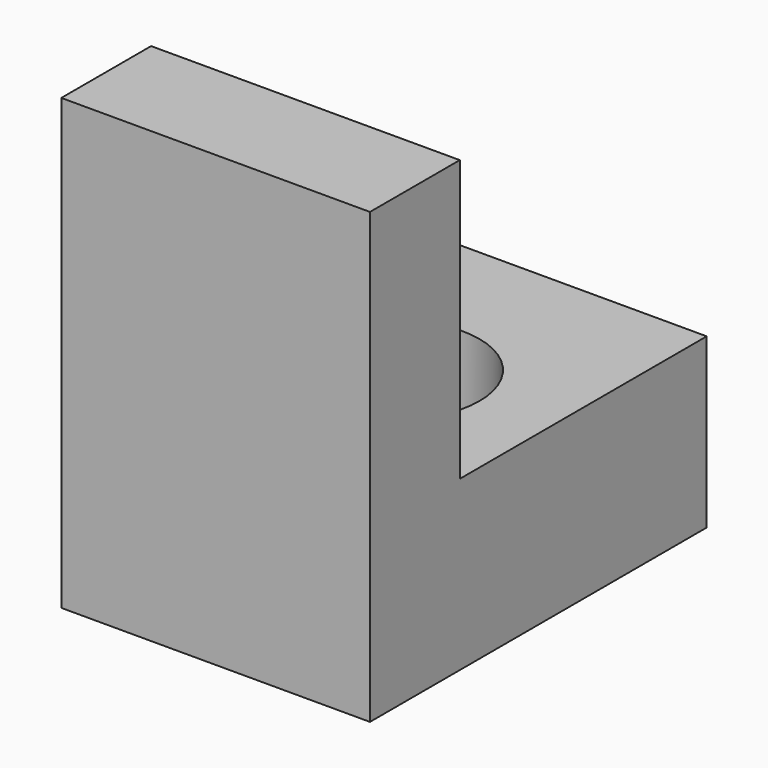
from build123d import *

# Parameters (mm, degrees)
F0_W     = 5.5
F0_H     = 5.5
F0_R     = 1.5
F0_H_2   = 2
F1_DEPTH = 3
F2_DEPTH = 8


with BuildPart() as f1:
    # F0 (on Top) → F1 (new body)
    with BuildSketch(Plane.XY):
        Rectangle(F0_W, F0_H)
        with Locations((0, -0.75)):
            Circle(F0_R, mode=Mode.SUBTRACT)
        with Locations((0, -3.75)):
            Rectangle(F0_W, F0_H_2)
    extrude(amount=F1_DEPTH)

    # F0 (on Top) → F2 (join)
    with BuildSketch(Plane.XY):
        with Locations((0, -3.75)):
            Rectangle(F0_W, F0_H_2)
    extrude(amount=F2_DEPTH)


solid = f1.part
